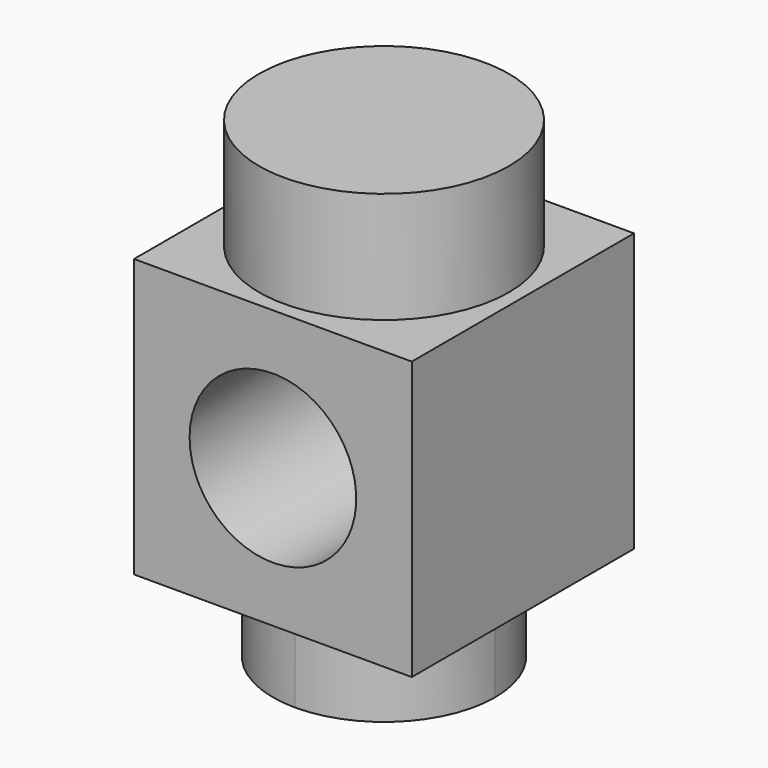
from build123d import *

# Parameters (mm, degrees)
F0_W     = 5
F0_H     = 5
F1_DEPTH = 5
F2_D     = 3
F3_R     = 2.25
F4_DEPTH = 2
F6_DEPTH = 1.5


with BuildPart() as f1:
    # F0 (on Front) → F1 (new body)
    with BuildSketch(Plane.XZ):
        with Locations((2.5, 15.0736845657)):
            Rectangle(F0_W, F0_H)
    extrude(amount=F1_DEPTH)

    # F2 (through all)
    with Locations(Plane(origin=(0, 0, 0), x_dir=(1, 0, 0), z_dir=(0, 1, 0))):
        with Locations((2.5, -15.0736845657)):
            Hole(F2_D / 2)

    # F3 (on face) → F4 (join)
    with BuildSketch(Plane.XY.offset(17.5736845657)):
        with Locations((2.5, -2.5)):
            Circle(F3_R)
    extrude(amount=F4_DEPTH)

    # F5 (on face) → F6 (join)
    with BuildSketch(Plane(origin=(0, 0, 12.5736845657), x_dir=(1, 0, 0), z_dir=(0, 0, -1))):
        with BuildLine():
            Line((2.5, 2.5), (2.5, 4.5))
            ThreePointArc((2.5, 4.5), (1.0857864376, 3.9142135624), (0.5, 2.5))
            Line((0.5, 2.5), (2.5, 2.5))
        make_face()
        with BuildLine():
            ThreePointArc((4.5, 2.5), (3.9142135624, 3.9142135624), (2.5, 4.5))
            Line((2.5, 4.5), (2.5, 2.5))
            Line((2.5, 2.5), (4.5, 2.5))
        make_face()
        with BuildLine():
            Line((4.5, 2.5), (2.5, 2.5))
            Line((2.5, 2.5), (2.5, 0.5))
            ThreePointArc((2.5, 0.5), (3.9142135624, 1.0857864376), (4.5, 2.5))
        make_face()
        with BuildLine():
            Line((2.5, 0.5), (2.5, 2.5))
            Line((2.5, 2.5), (0.5, 2.5))
            ThreePointArc((0.5, 2.5), (1.0857864376, 1.0857864376), (2.5, 0.5))
        make_face()
    extrude(amount=F6_DEPTH)


solid = f1.part
